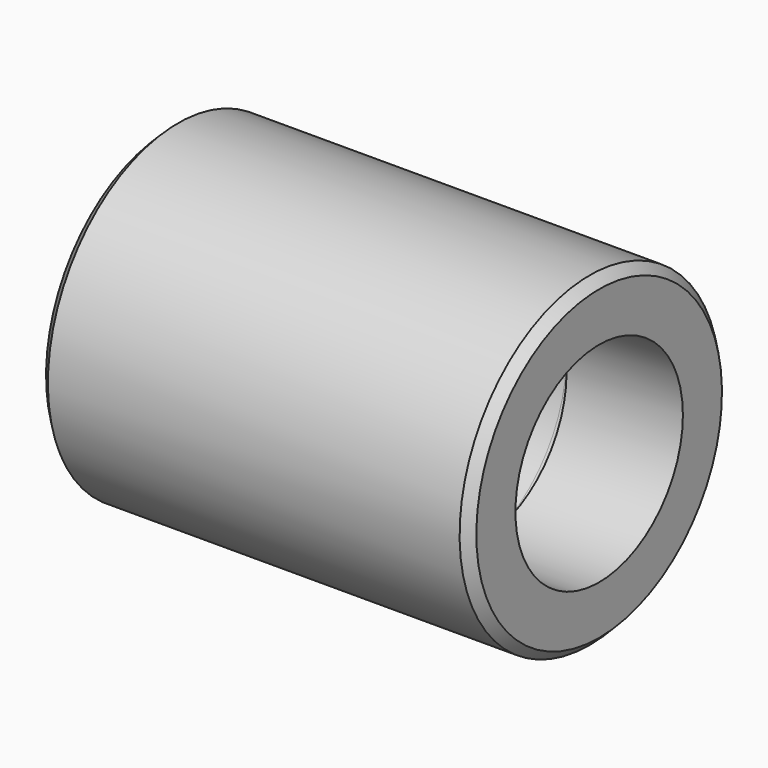
from build123d import *

# Parameters (mm, degrees)
F2_R     = 9
F3_DEPTH = 37
F4_SIZE  = 0.8
F5_R     = 1.6


with BuildPart() as f1:
    # F0 (on Front) → F1 (revolve)
    with BuildSketch(Plane.XZ):
        Polygon((-17, -16.36958538), (-27, -16.36958538), (-27, -30.36958538), (10, -30.36958538), (10, -16.36958538), (0, -16.36958538), (0, -27.36958538), (-17, -27.36958538), align=None)
    revolve(axis=Axis((-22, 0, -16.36958538), (1, 0, 0)))

    # F2 (on face) → F3 (cut)
    with BuildSketch(Plane.YZ.offset(10)):
        with Locations((0, -16.36958538)):
            Circle(F2_R)
    extrude(amount=-F3_DEPTH, mode=Mode.SUBTRACT)

    # F4
    f4_edges = [f1.edges().sort_by_distance(p)[0] for p in [
        (10, 0, -2.369585),
        (-27, 0, -2.369585),
    ]]
    chamfer(f4_edges, length=F4_SIZE)

    # F5
    f5_edges = [f1.edges().sort_by_distance(p)[0] for p in [
        (-17, 0, -5.369585),
        (0, 0, -5.369585),
    ]]
    fillet(f5_edges, radius=F5_R)


solid = f1.part
